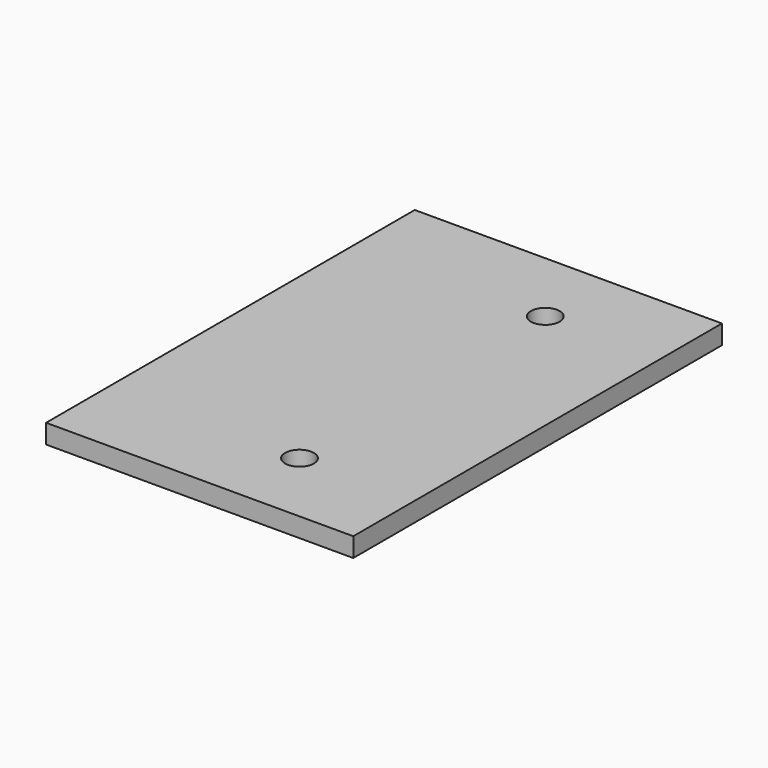
from build123d import *

# Parameters (mm, degrees)
F0_W     = 50.8
F0_H     = 76.2
F1_DEPTH = 1.5875
F2_R     = 2.38125
F3_DEPTH = 3.175


with BuildPart() as f1:
    # F0 (on Top) → F1 (new body, symmetric)
    with BuildSketch(Plane.XY):
        Rectangle(F0_W, F0_H)
    extrude(amount=F1_DEPTH, both=True)

    # F2 (on face) → F3 (cut, through all)
    with BuildSketch(Plane.XY.offset(1.5875)):
        with Locations((6.35, 25.4)):
            Circle(F2_R)
        with Locations((6.35, -25.4)):
            Circle(F2_R)
    extrude(amount=-F3_DEPTH, mode=Mode.SUBTRACT)


solid = f1.part
